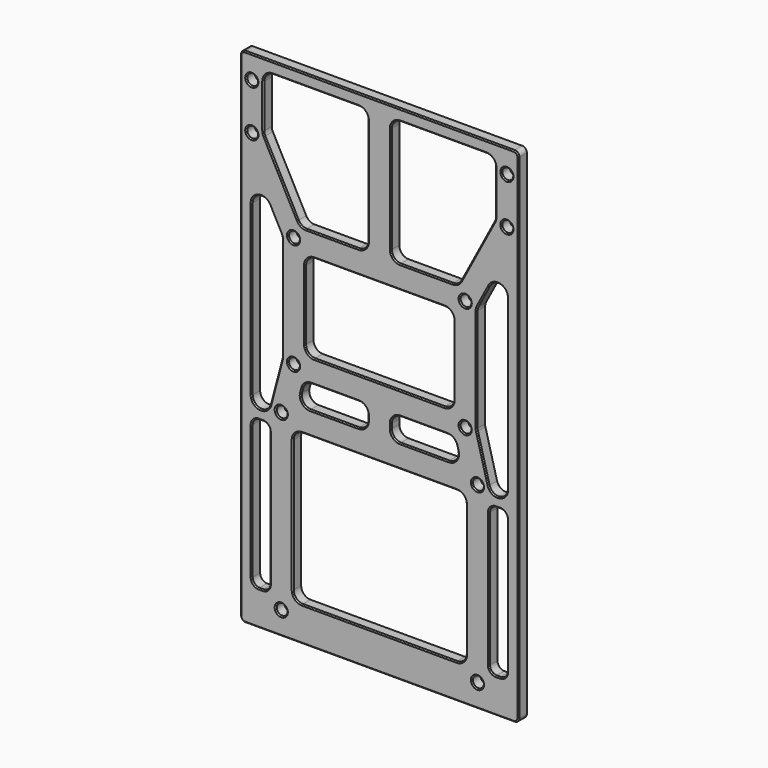
from build123d import *

# Parameters (mm, degrees)
SKETCH030_W     = 120
SKETCH030_H     = 217
SKETCH030_R     = 2.35
PAD013_DEPTH    = 5
FILLET004_R     = 2
CHAMFER009_SIZE = 0.5


with BuildPart() as part:
    # Sketch030 → Pad013 (new body)
    with BuildSketch(Plane.XZ):
        Rectangle(SKETCH030_W, SKETCH030_H)
        with Locations((-42.3, -23.5)):
            Circle(SKETCH030_R, mode=Mode.SUBTRACT)
        with Locations((42.3, -23.5)):
            Circle(SKETCH030_R, mode=Mode.SUBTRACT)
        with Locations((-42.3, -98.5)):
            Circle(SKETCH030_R, mode=Mode.SUBTRACT)
        with Locations((42.3, -98.5)):
            Circle(SKETCH030_R, mode=Mode.SUBTRACT)
        with Locations((-37, -3.5)):
            Circle(SKETCH030_R, mode=Mode.SUBTRACT)
        with Locations((37, -3.5)):
            Circle(SKETCH030_R, mode=Mode.SUBTRACT)
        with Locations((-37, 44.5)):
            Circle(SKETCH030_R, mode=Mode.SUBTRACT)
        with Locations((37, 44.5)):
            Circle(SKETCH030_R, mode=Mode.SUBTRACT)
        with Locations((-55, 78.5)):
            Circle(SKETCH030_R, mode=Mode.SUBTRACT)
        with Locations((-55, 98.5)):
            Circle(SKETCH030_R, mode=Mode.SUBTRACT)
        with Locations((55, 78.5)):
            Circle(SKETCH030_R, mode=Mode.SUBTRACT)
        with Locations((55, 98.5)):
            Circle(SKETCH030_R, mode=Mode.SUBTRACT)
        with BuildLine():
            Line((-32, 35.5), (-32, 5.5))
            ThreePointArc((-32, 5.5), (-30.8284271247, 2.6715728753), (-28, 1.5))
            Line((-28, 1.5), (28, 1.5))
            ThreePointArc((28, 1.5), (30.8284271247, 2.6715728753), (32, 5.5))
            Line((32, 5.5), (32, 35.5))
            ThreePointArc((32, 35.5), (30.8284271247, 38.3284271247), (28, 39.5))
            Line((28, 39.5), (-28, 39.5))
            ThreePointArc((-28, 39.5), (-30.8284271247, 38.3284271247), (-32, 35.5))
        make_face(mode=Mode.SUBTRACT)
        with BuildLine():
            Line((-46, 103.5), (-9, 103.5))
            ThreePointArc((-5, 99.5), (-6.1715728753, 102.3284271247), (-9, 103.5))
            Line((-5, 99.5), (-5, 53.5))
            ThreePointArc((-9, 49.5), (-6.1715728753, 50.6715728753), (-5, 53.5))
            Line((-9, 49.5), (-31.5812672615, 49.5))
            ThreePointArc((-35.1164189269, 51.6284491183), (-33.6444924641, 50.0731790588), (-31.5812672615, 49.5))
            Line((-35.1164189269, 51.6284491183), (-49.5351516654, 78.86383318))
            ThreePointArc((-50, 80.7353840617), (-49.8820488573, 79.7711762681), (-49.5351516654, 78.86383318))
            Line((-50, 80.7353840617), (-50, 99.5))
            ThreePointArc((-46, 103.5), (-48.8284271247, 102.3284271247), (-50, 99.5))
        make_face(mode=Mode.SUBTRACT)
        with BuildLine():
            Line((-55, 51.7090603828), (-55, -21.1956560047))
            ThreePointArc((-55, -21.1956560047), (-51.516644077, -25.1621505399), (-47.1334605511, -22.2202889587))
            Line((-47.1334605511, -22.2202889587), (-42.1334605511, -3.3523644304))
            ThreePointArc((-42.1334605511, -3.3523644304), (-42.0335054648, -2.8443755534), (-42, -2.3277314764))
            Line((-42, -2.3277314764), (-42, 42.2646159383))
            ThreePointArc((-42, 42.2646159383), (-42.1179511427, 43.2288237319), (-42.4648483346, 44.13616682))
            Line((-42.4648483346, 44.13616682), (-47.4648483346, 53.5806112644))
            ThreePointArc((-47.4648483346, 53.5806112644), (-51.9642077936, 55.5911092401), (-55, 51.7090603828))
        make_face(mode=Mode.SUBTRACT)
        with BuildLine():
            Line((-37.3, -32.5), (-37.3, -89.5))
            ThreePointArc((-37.3, -89.5), (-36.1284271247, -92.3284271247), (-33.3, -93.5))
            Line((-33.3, -93.5), (33.3, -93.5))
            ThreePointArc((33.3, -93.5), (36.1284271247, -92.3284271247), (37.3, -89.5))
            Line((37.3, -89.5), (37.3, -32.5))
            ThreePointArc((37.3, -32.5), (36.1284271247, -29.6715728753), (33.3, -28.5))
            Line((33.3, -28.5), (-33.3, -28.5))
            ThreePointArc((-33.3, -28.5), (-36.1284271247, -29.6715728753), (-37.3, -32.5))
        make_face(mode=Mode.SUBTRACT)
        with BuildLine():
            Line((-33.1809352261, -11.475367046), (-33.7109352261, -13.475367046))
            ThreePointArc((-33.7109352261, -13.475367046), (-33.0144534909, -16.9394126531), (-29.8443957772, -18.5))
            Line((-29.8443957772, -18.5), (-9, -18.5))
            ThreePointArc((-9, -18.5), (-6.1715728753, -17.3284271247), (-5, -14.5))
            Line((-5, -14.5), (-5, -12.5))
            ThreePointArc((-5, -12.5), (-6.1715728753, -9.6715728753), (-9, -8.5))
            Line((-9, -8.5), (-29.3143957772, -8.5))
            ThreePointArc((-29.3143957772, -8.5), (-31.7538084303, -9.3299422863), (-33.1809352261, -11.475367046))
        make_face(mode=Mode.SUBTRACT)
        with BuildLine():
            Line((-55, -32.5), (-55, -90.4273632733))
            ThreePointArc((-55, -90.4273632733), (-54.1213203436, -92.5486836169), (-52, -93.4273632733))
            Line((-52, -93.4273632733), (-50.3, -93.4273632733))
            ThreePointArc((-50.3, -93.4273632733), (-48.1786796564, -92.5486836169), (-47.3, -90.4273632733))
            Line((-47.3, -90.4273632733), (-47.3, -32.5))
            ThreePointArc((-47.3, -32.5), (-48.1786796564, -30.3786796564), (-50.3, -29.5))
            Line((-50.3, -29.5), (-52, -29.5))
            ThreePointArc((-52, -29.5), (-54.1213203436, -30.3786796564), (-55, -32.5))
        make_face(mode=Mode.SUBTRACT)
        with BuildLine():
            Line((5, 99.5), (5, 53.5))
            ThreePointArc((5, 53.5), (6.1715728753, 50.6715728753), (9, 49.5))
            Line((9, 49.5), (31.5812672615, 49.5))
            ThreePointArc((31.5812672615, 49.5), (33.6444924641, 50.0731790588), (35.1164189269, 51.6284491183))
            Line((35.1164189269, 51.6284491183), (49.5351516654, 78.86383318))
            ThreePointArc((49.5351516654, 78.86383318), (49.8820488573, 79.7711762681), (50, 80.7353840617))
            Line((50, 80.7353840617), (50, 99.5))
            ThreePointArc((50, 99.5), (48.8284271247, 102.3284271247), (46, 103.5))
            Line((46, 103.5), (9, 103.5))
            ThreePointArc((9, 103.5), (6.1715728753, 102.3284271247), (5, 99.5))
        make_face(mode=Mode.SUBTRACT)
        with BuildLine():
            Line((42, -2.3277314764), (42, 42.2646159383))
            ThreePointArc((42.4648483346, 44.13616682), (42.1179511427, 43.2288237319), (42, 42.2646159383))
            Line((42.4648483346, 44.13616682), (47.4648483346, 53.5806112644))
            ThreePointArc((55, 51.7090603828), (51.9642077936, 55.5911092401), (47.4648483346, 53.5806112644))
            Line((55, 51.7090603828), (55, -21.1956560047))
            ThreePointArc((47.1334605511, -22.2202889587), (51.516644077, -25.1621505399), (55, -21.1956560047))
            Line((47.1334605511, -22.2202889587), (42.1334605511, -3.3523644304))
            ThreePointArc((42, -2.3277314764), (42.0335054648, -2.8443755534), (42.1334605511, -3.3523644304))
        make_face(mode=Mode.SUBTRACT)
        with BuildLine():
            Line((9, -8.5), (29.3143957772, -8.5))
            ThreePointArc((33.1809352261, -11.475367046), (31.7538084303, -9.3299422863), (29.3143957772, -8.5))
            Line((33.1809352261, -11.475367046), (33.7109352261, -13.475367046))
            ThreePointArc((29.8443957772, -18.5), (33.0144534909, -16.9394126531), (33.7109352261, -13.475367046))
            Line((29.8443957772, -18.5), (9, -18.5))
            ThreePointArc((5, -14.5), (6.1715728753, -17.3284271247), (9, -18.5))
            Line((5, -14.5), (5, -12.5))
            ThreePointArc((9, -8.5), (6.1715728753, -9.6715728753), (5, -12.5))
        make_face(mode=Mode.SUBTRACT)
        with BuildLine():
            Line((47.3, -90.4273632733), (47.3, -32.5))
            ThreePointArc((50.3, -29.5), (48.1786796564, -30.3786796564), (47.3, -32.5))
            Line((50.3, -29.5), (52, -29.5))
            ThreePointArc((55, -32.5), (54.1213203436, -30.3786796564), (52, -29.5))
            Line((55, -32.5), (55, -90.4273632733))
            ThreePointArc((52, -93.4273632733), (54.1213203436, -92.5486836169), (55, -90.4273632733))
            Line((52, -93.4273632733), (50.3, -93.4273632733))
            ThreePointArc((47.3, -90.4273632733), (48.1786796564, -92.5486836169), (50.3, -93.4273632733))
        make_face(mode=Mode.SUBTRACT)
    extrude(amount=PAD013_DEPTH)

    # Fillet004
    fillet004_edges = [part.edges().sort_by_distance(p)[0] for p in [
        (-60, -2.5, 108.5),
        (60, -2.5, 108.5),
        (-60, -2.5, -108.5),
        (60, -2.5, -108.5),
    ]]
    fillet(fillet004_edges, radius=FILLET004_R)

    # Chamfer009
    chamfer009_edges = [part.edges().sort_by_distance(p)[0] for p in [
        (60, -5, 0),
        (59.414214, -5, -107.914214),
        (59.414214, -5, 107.914214),
        (0, -5, -108.5),
        (0, -5, 108.5),
        (-59.414214, -5, -107.914214),
        (-59.414214, -5, 107.914214),
        (-60, -5, 0),
        (-37.3, -5, -61),
        (-36.128427, -5, -92.328427),
        (0, -5, -93.5),
        (36.128427, -5, -92.328427),
        (37.3, -5, -61),
        (36.128427, -5, -29.671573),
        (0, -5, -28.5),
        (-36.128427, -5, -29.671573),
        (42, -5, 19.968442),
        (42.117951, -5, 43.228824),
        (44.964848, -5, 48.858389),
        (51.964208, -5, 55.591109),
        (55, -5, 15.256702),
        (51.516644, -5, -25.162151),
        (44.633461, -5, -12.786327),
        (42.033505, -5, -2.844376),
        (-55, -5, 15.256702),
        (-51.516644, -5, -25.162151),
        (-44.633461, -5, -12.786327),
        (-42.033505, -5, -2.844376),
        (-42, -5, 19.968442),
        (-42.117951, -5, 43.228824),
        (-44.964848, -5, 48.858389),
        (-51.964208, -5, 55.591109),
        (-32, -5, 20.5),
        (-30.828427, -5, 2.671573),
        (0, -5, 1.5),
        (30.828427, -5, 2.671573),
        (32, -5, 20.5),
        (30.828427, -5, 38.328427),
        (0, -5, 39.5),
        (-30.828427, -5, 38.328427),
        (5, -5, 76.5),
        (6.171573, -5, 50.671573),
        (20.290634, -5, 49.5),
        (33.644492, -5, 50.073179),
        (42.325785, -5, 65.246141),
        (49.882049, -5, 79.771176),
        (50, -5, 90.117692),
        (48.828427, -5, 102.328427),
        (27.5, -5, 103.5),
        (6.171573, -5, 102.328427),
        (-27.5, -5, 103.5),
        (-6.171573, -5, 102.328427),
        (-5, -5, 76.5),
        (-6.171573, -5, 50.671573),
        (-20.290634, -5, 49.5),
        (-33.644492, -5, 50.073179),
        (-42.325785, -5, 65.246141),
        (-49.882049, -5, 79.771176),
        (-50, -5, 90.117692),
        (-48.828427, -5, 102.328427),
        (47.3, -5, -61.463682),
        (48.17868, -5, -30.37868),
        (51.15, -5, -29.5),
        (54.12132, -5, -30.37868),
        (55, -5, -61.463682),
        (54.12132, -5, -92.548684),
        (51.15, -5, -93.427363),
        (48.17868, -5, -92.548684),
        (-55, -5, -61.463682),
        (-54.12132, -5, -92.548684),
        (-51.15, -5, -93.427363),
        (-48.17868, -5, -92.548684),
        (-47.3, -5, -61.463682),
        (-48.17868, -5, -30.37868),
        (-51.15, -5, -29.5),
        (-54.12132, -5, -30.37868),
        (19.157198, -5, -8.5),
        (31.753808, -5, -9.329942),
        (33.445935, -5, -12.475367),
        (33.014453, -5, -16.939413),
        (19.422198, -5, -18.5),
        (6.171573, -5, -17.328427),
        (5, -5, -13.5),
        (6.171573, -5, -9.671573),
        (-33.445935, -5, -12.475367),
        (-33.014453, -5, -16.939413),
        (-19.422198, -5, -18.5),
        (-6.171573, -5, -17.328427),
        (-5, -5, -13.5),
        (-6.171573, -5, -9.671573),
        (-19.157198, -5, -8.5),
        (-31.753808, -5, -9.329942),
        (34.65, -5, 44.5),
        (-39.35, -5, 44.5),
        (39.95, -5, -23.5),
        (-44.65, -5, -23.5),
        (34.65, -5, -3.5),
        (-39.35, -5, -3.5),
        (52.65, -5, 98.5),
        (52.65, -5, 78.5),
        (-57.35, -5, 98.5),
        (-57.35, -5, 78.5),
        (39.95, -5, -98.5),
        (-44.65, -5, -98.5),
        (60, 0, 0),
        (59.414214, 0, -107.914214),
        (59.414214, 0, 107.914214),
        (0, 0, -108.5),
        (0, 0, 108.5),
        (-59.414214, 0, -107.914214),
        (-59.414214, 0, 107.914214),
        (-60, 0, 0),
        (-37.3, 0, -61),
        (-36.128427, 0, -92.328427),
        (0, 0, -93.5),
        (36.128427, 0, -92.328427),
        (37.3, 0, -61),
        (36.128427, 0, -29.671573),
        (0, 0, -28.5),
        (-36.128427, 0, -29.671573),
        (42, 0, 19.968442),
        (42.117951, 0, 43.228824),
        (44.964848, 0, 48.858389),
        (51.964208, 0, 55.591109),
        (55, 0, 15.256702),
        (51.516644, 0, -25.162151),
        (44.633461, 0, -12.786327),
        (42.033505, 0, -2.844376),
        (-55, 0, 15.256702),
        (-51.516644, 0, -25.162151),
        (-44.633461, 0, -12.786327),
        (-42.033505, 0, -2.844376),
        (-42, 0, 19.968442),
        (-42.117951, 0, 43.228824),
        (-44.964848, 0, 48.858389),
        (-51.964208, 0, 55.591109),
        (-32, 0, 20.5),
        (-30.828427, 0, 2.671573),
        (0, 0, 1.5),
        (30.828427, 0, 2.671573),
        (32, 0, 20.5),
        (30.828427, 0, 38.328427),
        (0, 0, 39.5),
        (-30.828427, 0, 38.328427),
        (5, 0, 76.5),
        (6.171573, 0, 50.671573),
        (20.290634, 0, 49.5),
        (33.644492, 0, 50.073179),
        (42.325785, 0, 65.246141),
        (49.882049, 0, 79.771176),
        (50, 0, 90.117692),
        (48.828427, 0, 102.328427),
        (27.5, 0, 103.5),
        (6.171573, 0, 102.328427),
        (-27.5, 0, 103.5),
        (-6.171573, 0, 102.328427),
        (-5, 0, 76.5),
        (-6.171573, 0, 50.671573),
        (-20.290634, 0, 49.5),
        (-33.644492, 0, 50.073179),
        (-42.325785, 0, 65.246141),
        (-49.882049, 0, 79.771176),
        (-50, 0, 90.117692),
        (-48.828427, 0, 102.328427),
        (47.3, 0, -61.463682),
        (48.17868, 0, -30.37868),
        (51.15, 0, -29.5),
        (54.12132, 0, -30.37868),
        (55, 0, -61.463682),
        (54.12132, 0, -92.548684),
        (51.15, 0, -93.427363),
        (48.17868, 0, -92.548684),
        (-55, 0, -61.463682),
        (-54.12132, 0, -92.548684),
        (-51.15, 0, -93.427363),
        (-48.17868, 0, -92.548684),
        (-47.3, 0, -61.463682),
        (-48.17868, 0, -30.37868),
        (-51.15, 0, -29.5),
        (-54.12132, 0, -30.37868),
        (19.157198, 0, -8.5),
        (31.753808, 0, -9.329942),
        (33.445935, 0, -12.475367),
        (33.014453, 0, -16.939413),
        (19.422198, 0, -18.5),
        (6.171573, 0, -17.328427),
        (5, 0, -13.5),
        (6.171573, 0, -9.671573),
        (-33.445935, 0, -12.475367),
        (-33.014453, 0, -16.939413),
        (-19.422198, 0, -18.5),
        (-6.171573, 0, -17.328427),
        (-5, 0, -13.5),
        (-6.171573, 0, -9.671573),
        (-19.157198, 0, -8.5),
        (-31.753808, 0, -9.329942),
        (34.65, 0, 44.5),
        (-39.35, 0, 44.5),
        (39.95, 0, -23.5),
        (-44.65, 0, -23.5),
        (34.65, 0, -3.5),
        (-39.35, 0, -3.5),
        (52.65, 0, 98.5),
        (52.65, 0, 78.5),
        (-57.35, 0, 98.5),
        (-57.35, 0, 78.5),
        (39.95, 0, -98.5),
        (-44.65, 0, -98.5),
    ]]
    chamfer(chamfer009_edges, length=CHAMFER009_SIZE)


solid = part.part
